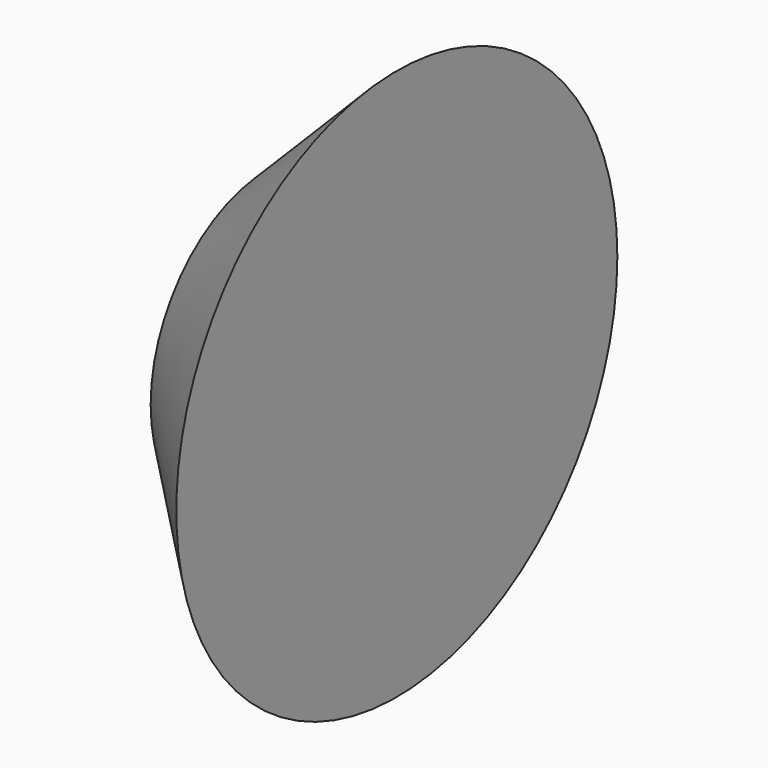
from build123d import *

# Parameters (mm, degrees)
F0_R     = 58.4984599159
F1_DEPTH = 50.8
F1_TAPER = -45


with BuildPart() as f1:
    # F0 (on Right) → F1 (new body)
    with BuildSketch(Plane.YZ):
        with Locations((72.2503102047, 25.4655817923)):
            Circle(F0_R)
    extrude(amount=F1_DEPTH, taper=F1_TAPER)


solid = f1.part
